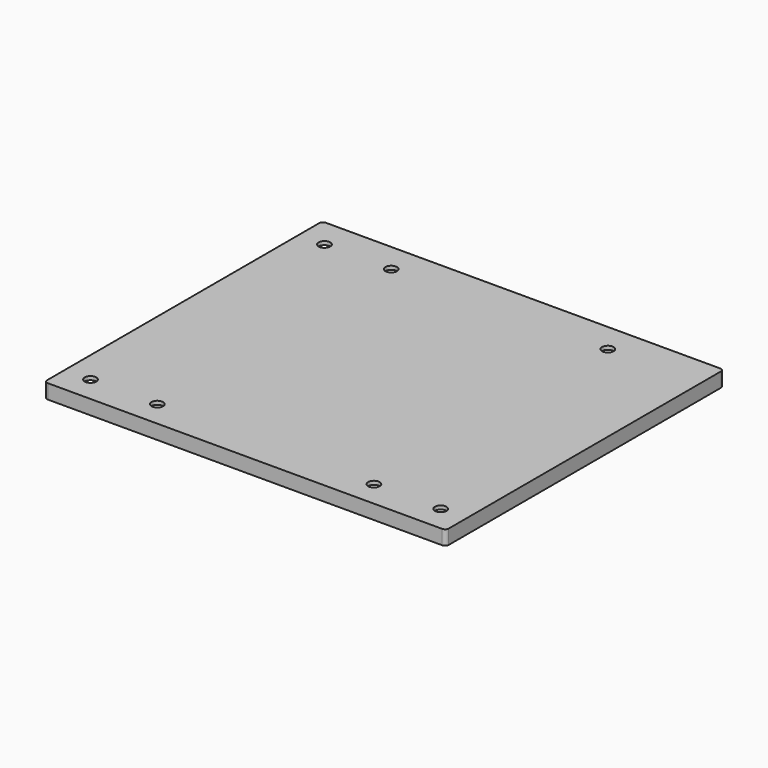
from build123d import *

# Parameters (mm, degrees)
PAD030_DEPTH    = 1
PAD031_DEPTH    = 3
SKETCH049_R     = 1.6
POCKET019_DEPTH = 5


with BuildPart() as part:
    # Sketch047 → Pad030 (new body)
    with BuildSketch(Plane.XY):
        with BuildLine():
            Line((-55.625, 47.125), (-55.625, -47.125))
            ThreePointArc((-55.625, -47.125), (-55.332107, -47.832107), (-54.625, -48.125))
            Line((-54.625, -48.125), (54.625, -48.125))
            ThreePointArc((54.625, -48.125), (55.332107, -47.832107), (55.625, -47.125))
            Line((55.625, -47.125), (55.625, 47.125))
            ThreePointArc((55.625, 47.125), (55.332107, 47.832107), (54.625, 48.125))
            Line((54.625, 48.125), (-54.625, 48.125))
            ThreePointArc((-54.625, 48.125), (-55.332107, 47.832107), (-55.625, 47.125))
        make_face()
    extrude(amount=PAD030_DEPTH)

    # Sketch048 → Pad031 (join)
    with BuildSketch(Plane.XY):
        with BuildLine():
            Line((-55.625, 47.125), (-55.625, -47.125))
            ThreePointArc((-55.625, -47.125), (-55.332107, -47.832107), (-54.625, -48.125))
            Line((-54.625, -48.125), (54.625, -48.125))
            ThreePointArc((54.625, -48.125), (55.332107, -47.832107), (55.625, -47.125))
            Line((55.625, -47.125), (55.625, 47.125))
            ThreePointArc((55.625, 47.125), (55.332107, 47.832107), (54.625, 48.125))
            Line((54.625, 48.125), (-54.625, 48.125))
            ThreePointArc((-54.625, 48.125), (-55.332107, 47.832107), (-55.625, 47.125))
        make_face()
        with BuildLine():
            Line((-54.625, 46.125), (-54.625, -46.125))
            ThreePointArc((-54.625, -46.125), (-54.332107, -46.832107), (-53.625, -47.125))
            Line((-53.625, -47.125), (53.625, -47.125))
            ThreePointArc((53.625, -47.125), (54.332107, -46.832107), (54.625, -46.125))
            Line((54.625, -46.125), (54.625, 46.125))
            ThreePointArc((54.625, 46.125), (54.332107, 46.832107), (53.625, 47.125))
            Line((53.625, 47.125), (-53.625, 47.125))
            ThreePointArc((-53.625, 47.125), (-54.332107, 46.832107), (-54.625, 46.125))
        make_face(mode=Mode.SUBTRACT)
    extrude(amount=-PAD031_DEPTH)

    # Sketch049 → Pocket019 (cut)
    with BuildSketch(Plane.XY):
        with Locations((-48.5, 40)):
            Circle(SKETCH049_R)
        with Locations((-30, 40)):
            Circle(SKETCH049_R)
        with Locations((30, 40)):
            Circle(SKETCH049_R)
        with Locations((-30, -41)):
            Circle(SKETCH049_R)
        with Locations((-48.5, -41)):
            Circle(SKETCH049_R)
        with Locations((30, -41)):
            Circle(SKETCH049_R)
        with Locations((48.5, -41)):
            Circle(SKETCH049_R)
    extrude(amount=POCKET019_DEPTH, mode=Mode.SUBTRACT)


with BuildPart() as part_1:
    # Body013 placement: moved
    add(part.part.moved(Location((0, 0, 36.1))))


solid = part_1.part
